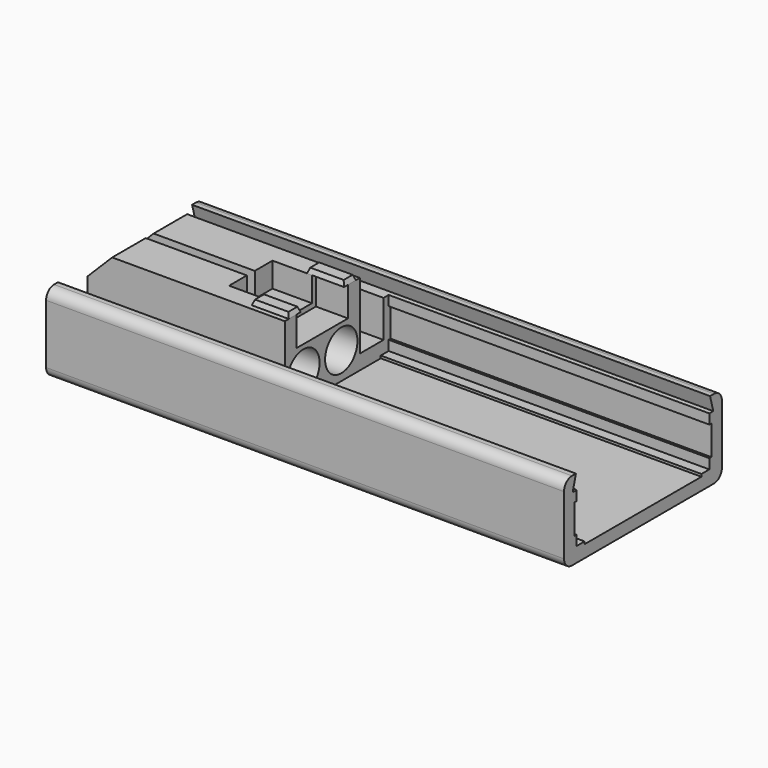
from build123d import *

# Parameters (mm, degrees)
SKETCH_W        = 105
SKETCH_H        = 40
PAD_DEPTH       = 16
SKETCH001_W     = 65
SKETCH001_H     = 33.6
POCKET_DEPTH    = 13
SKETCH002_R     = 3.4
POCKET001_DEPTH = 40.001
SKETCH014_R     = 4.1
POCKET002_DEPTH = 25
SKETCH006_W     = 40
SKETCH006_H     = 6
POCKET003_DEPTH = 10.5
SKETCH011_W     = 105
SKETCH011_H     = 34
POCKET004_DEPTH = 3
POCKET004_TAPER = -15
SKETCH008_W     = 65
SKETCH008_H     = 29.6
POCKET005_DEPTH = 0.5
SKETCH010_W     = 65
SKETCH010_H     = 6
POCKET006_DEPTH = 0.5
SKETCH015_W     = 65
SKETCH015_H     = 6
POCKET007_DEPTH = 0.5
SKETCH016_W     = 40
SKETCH016_H     = 19
PAD001_DEPTH    = 6
SKETCH017_W     = 6.5
SKETCH017_H     = 13
POCKET008_DEPTH = 6
SKETCH018_W     = 8
SKETCH018_H     = 11
POCKET009_DEPTH = 5
SKETCH019_W     = 25.5
SKETCH019_H     = 2
POCKET010_DEPTH = 5
SKETCH020_W     = 7.5
SKETCH020_H     = 3
PAD002_DEPTH    = 1
PAD002_TAPER    = 20
FILLET_R        = 2
CHAMFER_SIZE    = 5


with BuildPart() as part:
    # Sketch → Pad (new body)
    with BuildSketch(Plane.XY):
        Rectangle(SKETCH_W, SKETCH_H)
    extrude(amount=PAD_DEPTH)

    # Sketch001 (on Face6 of Pad) → Pocket (cut)
    with BuildSketch(Plane.XY.offset(16)):
        with Locations((20, 0)):
            Rectangle(SKETCH001_W, SKETCH001_H)
    extrude(amount=-POCKET_DEPTH, mode=Mode.SUBTRACT)

    # Sketch002 (on Face10 of Pocket) → Pocket001 (cut, through all)
    with BuildSketch(Plane.YZ.offset(-12.5)):
        with Locations((4.8, 8)):
            Circle(SKETCH002_R)
        with Locations((-4.8, 8)):
            Circle(SKETCH002_R)
    extrude(amount=-POCKET001_DEPTH, mode=Mode.SUBTRACT)

    # Sketch014 (on Face12 of Pocket001) → Pocket002 (cut)
    with BuildSketch(Plane.YZ.offset(-12.5)):
        with Locations((4.8, 8)):
            Circle(SKETCH014_R)
        with Locations((-4.8, 8)):
            Circle(SKETCH014_R)
    extrude(amount=-POCKET002_DEPTH, mode=Mode.SUBTRACT)

    # Sketch006 → Pocket003 (cut)
    with BuildSketch(Plane.XY.offset(16)):
        with Locations((-32.5, 12.5)):
            Rectangle(SKETCH006_W, SKETCH006_H)
        with Locations((-32.5, -12.5)):
            Rectangle(SKETCH006_W, SKETCH006_H)
    extrude(amount=-POCKET003_DEPTH, mode=Mode.SUBTRACT)

    # Sketch011 → Pocket004 (cut)
    with BuildSketch(Plane.XY.offset(16)):
        Rectangle(SKETCH011_W, SKETCH011_H)
    extrude(amount=-POCKET004_DEPTH, taper=POCKET004_TAPER, mode=Mode.SUBTRACT)

    # Sketch008 → Pocket005 (cut)
    with BuildSketch(Plane.XY.offset(3)):
        with Locations((20, 0)):
            Rectangle(SKETCH008_W, SKETCH008_H)
    extrude(amount=-POCKET005_DEPTH, mode=Mode.SUBTRACT)

    # Sketch010 → Pocket006 (cut)
    with BuildSketch(Plane(origin=(0, -16.8, 0), x_dir=(-1, 0, 0), z_dir=(0, 1, 0))):
        with Locations((-20, 8)):
            Rectangle(SKETCH010_W, SKETCH010_H)
    extrude(amount=-POCKET006_DEPTH, mode=Mode.SUBTRACT)

    # Sketch015 (on Face31 of Pocket006) → Pocket007 (cut)
    with BuildSketch(Plane.XZ.offset(-16.8)):
        with Locations((20, 8)):
            Rectangle(SKETCH015_W, SKETCH015_H)
    extrude(amount=-POCKET007_DEPTH, mode=Mode.SUBTRACT)

    # Sketch016 (on Face11 of Pocket007) → Pad001 (join)
    with BuildSketch(Plane.XY.offset(13)):
        with Locations((-32.5, 0)):
            Rectangle(SKETCH016_W, SKETCH016_H)
    extrude(amount=PAD001_DEPTH)

    # Sketch017 (on Face39 of Pad001) → Pocket008 (cut)
    with BuildSketch(Plane.XY.offset(19)):
        with Locations((-15.75, 0)):
            Rectangle(SKETCH017_W, SKETCH017_H)
    extrude(amount=-POCKET008_DEPTH, mode=Mode.SUBTRACT)

    # Sketch018 (on Face39 of Pocket008) → Pocket009 (cut)
    with BuildSketch(Plane.XY.offset(19)):
        with Locations((-23, 0)):
            Rectangle(SKETCH018_W, SKETCH018_H)
    extrude(amount=-POCKET009_DEPTH, mode=Mode.SUBTRACT)

    # Sketch019 (on Face39 of Pocket009) → Pocket010 (cut)
    with BuildSketch(Plane.XY.offset(19)):
        with Locations((-39.75, 0)):
            Rectangle(SKETCH019_W, SKETCH019_H)
    extrude(amount=-POCKET010_DEPTH, mode=Mode.SUBTRACT)

    # Sketch020 (on Face42 of Pocket010) → Pad002 (join)
    with BuildSketch(Plane.XY.offset(19)):
        with Locations((-16.25, 7)):
            Rectangle(SKETCH020_W, SKETCH020_H)
        with Locations((-16.25, -7)):
            Rectangle(SKETCH020_W, SKETCH020_H)
    extrude(amount=PAD002_DEPTH, taper=PAD002_TAPER)

    # Fillet
    fillet_edges = [part.edges().sort_by_distance(p)[0] for p in [
        (0, -20, 16),
        (0, -20, 0),
        (0, 20, 16),
        (0, 20, 0),
    ]]
    fillet(fillet_edges, radius=FILLET_R)

    # Chamfer
    chamfer_edges = [part.edges().sort_by_distance(p)[0] for p in [
        (-52.5, -5.25, 19),
        (-52.5, 5.25, 19),
    ]]
    chamfer(chamfer_edges, length=CHAMFER_SIZE)


solid = part.part
